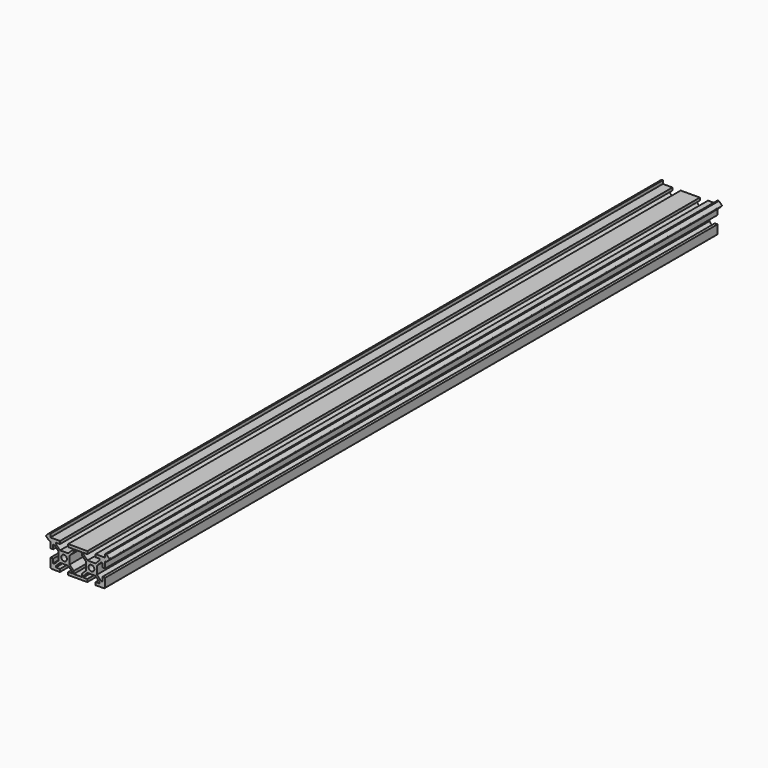
from build123d import *

# Parameters (mm, degrees)
F0_R     = 2.1
F1_DEPTH = 560


with BuildPart() as f1:
    # F0 (on Front) → F1 (new body)
    with BuildSketch(Plane.XZ):
        with BuildLine():
            Line((20, 12.38), (20, 10))
            Line((20, 10), (16, 10))
            Line((16, 10), (13, 10))
            Line((13, 10), (13, 8))
            Line((13, 8), (16, 8))
            Line((16, 8), (16, 7.06))
            Line((16, 7.06), (12.94, 4))
            Line((12.94, 4), (7.06, 4))
            Line((7.06, 4), (4, 7.06))
            Line((4, 7.06), (4, 8))
            Line((4, 8), (2.94, 8))
            Line((2.94, 8), (2.94, 6))
            Line((2.94, 6), (6, 2.94))
            Line((6, 2.94), (6, -2.94))
            Line((6, -2.94), (2.94, -6))
            Line((2.94, -6), (2.94, -8))
            Line((2.94, -8), (4, -8))
            Line((4, -8), (4, -7.06))
            Line((4, -7.06), (7.06, -4))
            Line((7.06, -4), (12.94, -4))
            Line((12.94, -4), (16, -7.06))
            Line((16, -7.06), (16, -8))
            Line((16, -8), (13, -8))
            Line((13, -8), (13, -10))
            Line((13, -10), (16, -10))
            Line((16, -10), (19, -10))
            ThreePointArc((19, -10), (19.707107, -9.707107), (20, -9))
            Line((20, -9), (20, -6))
            Line((20, -6), (20, -3))
            Line((20, -3), (18, -3))
            Line((18, -3), (18, -6))
            Line((18, -6), (17.06, -6))
            Line((17.06, -6), (14, -2.94))
            Line((14, -2.94), (14, 2.94))
            Line((14, 2.94), (17.06, 6))
            Line((17.06, 6), (18, 6))
            Line((18, 6), (18, 3))
            Line((18, 3), (20, 3))
            Line((20, 3), (20, 6))
            Line((20, 6), (20, 7.12))
            ThreePointArc((20, 7.12), (20.146447, 7.473553), (20.5, 7.62))
            Line((20.5, 7.62), (21, 7.62))
            Line((21, 7.62), (23.026447, 9.646447))
            ThreePointArc((23.026447, 9.646447), (23.172893, 10), (23.026447, 10.353553))
            Line((23.026447, 10.353553), (21, 12.38))
            Line((21, 12.38), (20, 12.38))
        make_face()
        with Locations((10, 0)):
            Circle(F0_R, mode=Mode.SUBTRACT)
        Polygon((2.94, 8), (4, 8), (7, 8), (7, 10), (1, 10), (-7, 10), (-7, 8), (-4, 8), (-2.94, 8), align=None)
        with BuildLine():
            Line((-2.94, 6), (-2.94, 8))
            Line((-2.94, 8), (-4, 8))
            Line((-4, 8), (-4, 7.06))
            Line((-4, 7.06), (-7.06, 4))
            Line((-7.06, 4), (-12.94, 4))
            Line((-12.94, 4), (-16, 7.06))
            Line((-16, 7.06), (-16, 8))
            Line((-16, 8), (-13, 8))
            Line((-13, 8), (-13, 10))
            Line((-13, 10), (-16, 10))
            Line((-16, 10), (-20, 10))
            Line((-20, 10), (-20, 12.38))
            Line((-20, 12.38), (-21, 12.38))
            Line((-21, 12.38), (-23.026447, 10.353553))
            ThreePointArc((-23.026447, 10.353553), (-23.172893, 10), (-23.026447, 9.646447))
            Line((-23.026447, 9.646447), (-21, 7.62))
            Line((-21, 7.62), (-20.5, 7.62))
            ThreePointArc((-20.5, 7.62), (-20.146447, 7.473553), (-20, 7.12))
            Line((-20, 7.12), (-20, 6))
            Line((-20, 6), (-20, 3))
            Line((-20, 3), (-18, 3))
            Line((-18, 3), (-18, 6))
            Line((-18, 6), (-17.06, 6))
            Line((-17.06, 6), (-14, 2.94))
            Line((-14, 2.94), (-14, -2.94))
            Line((-14, -2.94), (-17.06, -6))
            Line((-17.06, -6), (-18, -6))
            Line((-18, -6), (-18, -3))
            Line((-18, -3), (-20, -3))
            Line((-20, -3), (-20, -6))
            Line((-20, -6), (-20, -9))
            ThreePointArc((-20, -9), (-19.707107, -9.707107), (-19, -10))
            Line((-19, -10), (-16, -10))
            Line((-16, -10), (-13, -10))
            Line((-13, -10), (-13, -8))
            Line((-13, -8), (-16, -8))
            Line((-16, -8), (-16, -7.06))
            Line((-16, -7.06), (-12.94, -4))
            Line((-12.94, -4), (-7.06, -4))
            Line((-7.06, -4), (-4, -7.06))
            Line((-4, -7.06), (-4, -8))
            Line((-4, -8), (-7, -8))
            Line((-7, -8), (-7, -10))
            Line((-7, -10), (7, -10))
            Line((7, -10), (7, -8))
            Line((7, -8), (4, -8))
            Line((4, -8), (2.94, -8))
            Line((2.94, -8), (-2.94, -8))
            Line((-2.94, -8), (-2.94, -6))
            Line((-2.94, -6), (-6, -2.94))
            Line((-6, -2.94), (-6, 2.94))
            Line((-6, 2.94), (-2.94, 6))
        make_face()
        with Locations((-10, 0)):
            Circle(F0_R, mode=Mode.SUBTRACT)
    extrude(amount=F1_DEPTH)


solid = f1.part
